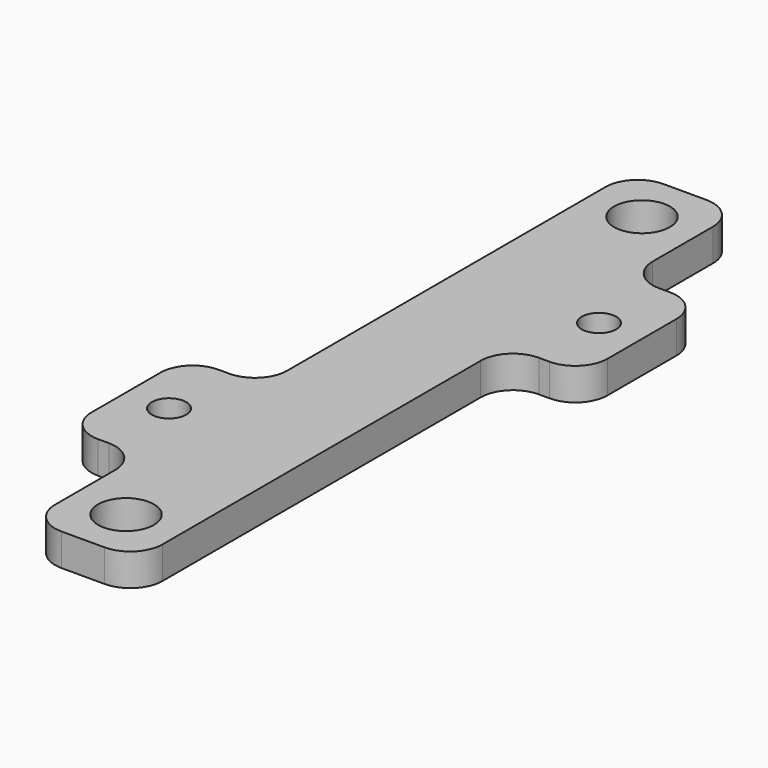
from build123d import *

# Parameters (mm, degrees)
SKETCH_R    = 1.6
SKETCH_R_2  = 2.6
PAD_DEPTH   = 3
FILLET_R    = 3
FILLET001_R = 3
FILLET002_R = 3
FILLET003_R = 3
FILLET004_R = 3


with BuildPart() as part:
    # Sketch → Pad (new body)
    with BuildSketch(Plane.XY):
        Polygon((3, 50), (13, 50), (13, 37), (20, 37), (20, 23), (13, 23), (13, -20), (3, -20), (3, -7), (-4, -7), (-4, 7), (3, 7), align=None)
        Circle(SKETCH_R, mode=Mode.SUBTRACT)
        with Locations((16, 30)):
            Circle(SKETCH_R, mode=Mode.SUBTRACT)
        with Locations((8, 45)):
            Circle(SKETCH_R_2, mode=Mode.SUBTRACT)
        with Locations((8, -15)):
            Circle(SKETCH_R_2, mode=Mode.SUBTRACT)
    extrude(amount=PAD_DEPTH)

    # Fillet
    fillet_edges = [part.edges().sort_by_distance(p)[0] for p in [
        (13, -20, 1.5),
        (3, -20, 1.5),
        (20, 23, 1.5),
        (20, 37, 1.5),
        (-4, -7, 1.5),
        (-4, 7, 1.5),
        (3, 50, 1.5),
        (13, 50, 1.5),
    ]]
    fillet(fillet_edges, radius=FILLET_R)

    # Fillet001
    fillet001_edges = [part.edges().sort_by_distance(p)[0] for p in [
        (13, 37, 1.5),
    ]]
    fillet(fillet001_edges, radius=FILLET001_R)

    # Fillet002
    fillet002_edges = [part.edges().sort_by_distance(p)[0] for p in [
        (13, 23, 1.5),
    ]]
    fillet(fillet002_edges, radius=FILLET002_R)

    # Fillet003
    fillet003_edges = [part.edges().sort_by_distance(p)[0] for p in [
        (3, -7, 1.5),
    ]]
    fillet(fillet003_edges, radius=FILLET003_R)

    # Fillet004
    fillet004_edges = [part.edges().sort_by_distance(p)[0] for p in [
        (3, 7, 1.5),
    ]]
    fillet(fillet004_edges, radius=FILLET004_R)


solid = part.part
